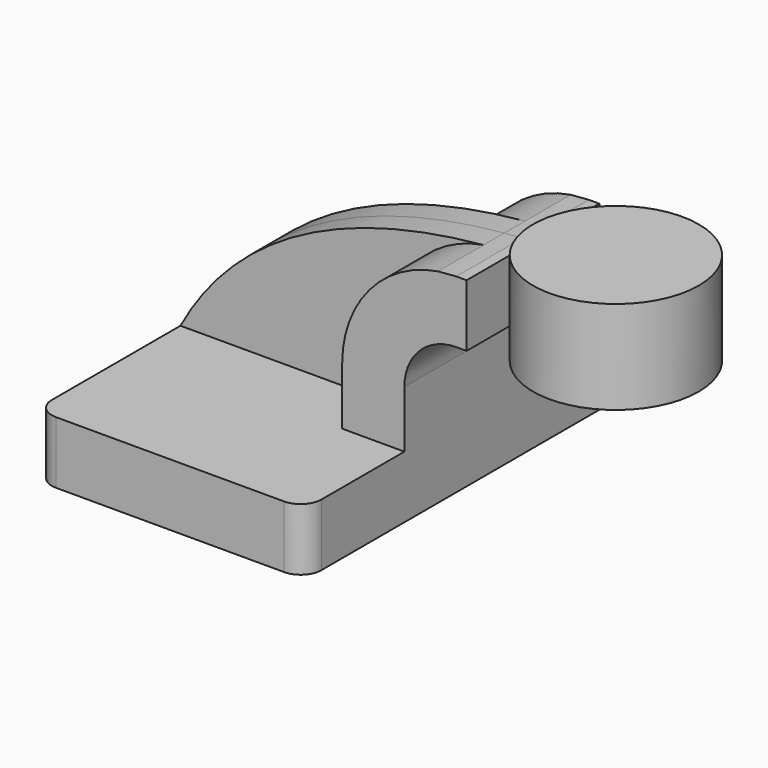
from build123d import *

# Parameters (mm, degrees)
F1_DEPTH = 63.5
F2_DEPTH = 25.4
F3_DEPTH = 7.9375
F5_R     = 6.35


with BuildPart() as f1:
    # F0 (on Front) → F1 (new body, symmetric)
    with BuildSketch(Plane.XZ):
        Polygon((41.275, -9.525), (41.275, 9.525), (22.225, 9.525), (-41.275, 9.525), (-41.275, -9.525), align=None)
    extrude(amount=F1_DEPTH, both=True)

    # F0 (on Front) → F2 (join, symmetric)
    with BuildSketch(Plane.XZ):
        with BuildLine():
            Line((22.225, 9.525), (41.275, 9.525))
            Line((41.275, 9.525), (41.275, 27.0002))
            ThreePointArc((41.275, 27.0002), (45.92468, 38.22552), (57.15, 42.8752))
            Line((57.15, 42.8752), (60.325, 42.8752))
            Line((60.325, 42.8752), (60.325, 61.9252))
            Line((60.325, 61.9252), (57.15, 61.9252))
            add(Edge.make_bspline(
                [(51.560681, 61.475048), (53.40065, 61.64712), (55.263777, 61.797188), (57.15, 61.9252)],
                knots=[107.151836, 107.151836, 107.151836, 107.151836, 111.504536, 111.504536, 111.504536, 111.504536], degree=3))
            ThreePointArc((51.560681, 61.475048), (30.551479, 49.633678), (22.225, 27.0002))
            Line((22.225, 27.0002), (22.225, 9.525))
        make_face()
    extrude(amount=F2_DEPTH, both=True)

    # F0 (on Front) → F3 (join, symmetric)
    with BuildSketch(Plane.XZ):
        with BuildLine():
            Line((-41.275, 9.525), (22.225, 9.525))
            Line((22.225, 9.525), (22.225, 27.0002))
            ThreePointArc((22.225, 27.0002), (30.551479, 49.633678), (51.560681, 61.475048))
            add(Edge.make_bspline(
                [(-41.275, 9.525), (-24.995164, 39.667875), (6.26556, 57.239079), (51.560681, 61.475048)],
                knots=[0, 0, 0, 0, 107.151836, 107.151836, 107.151836, 107.151836], degree=3))
        make_face()
    extrude(amount=F3_DEPTH, both=True)

    # F0 (on Front) → F4 (revolve)
    with BuildSketch(Plane.XZ):
        Polygon((85.725, 61.9252), (85.725, 42.8752), (85.725, 38.1), (111.125, 38.1), (111.125, 66.675), (85.725, 66.675), align=None)
    revolve(axis=Axis((85.725, 0, 52.3875), (0, 0, 1)))

    # F5
    f5_edges = [f1.edges().sort_by_distance(p)[0] for p in [
        (-41.275, -63.5, 0),
        (-41.275, 63.5, 0),
        (41.275, -63.5, 0),
        (41.275, 63.5, 0),
    ]]
    fillet(f5_edges, radius=F5_R)


solid = f1.part
